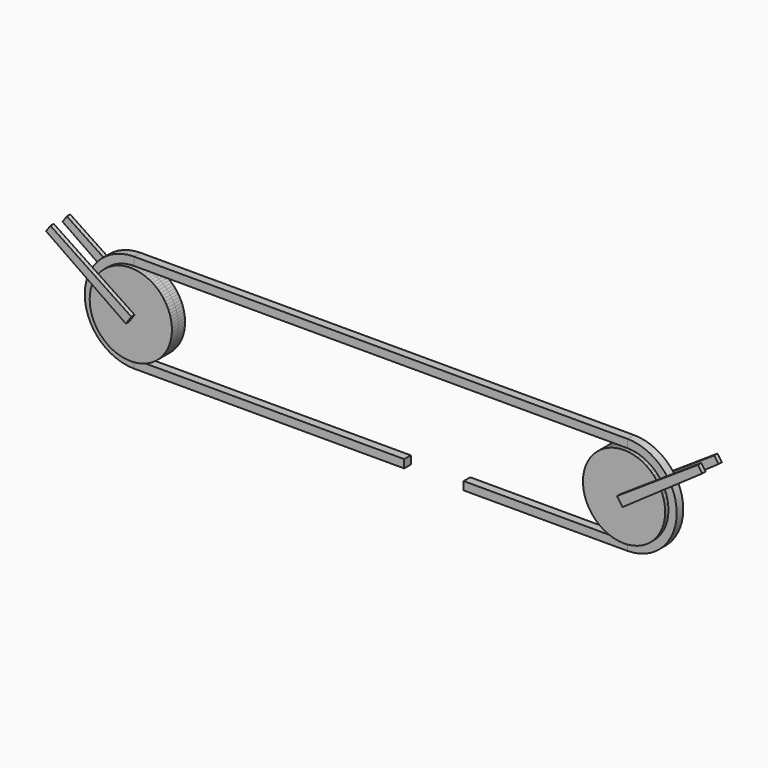
from build123d import *

# Parameters (mm, degrees)
F0_W     = 834.534724
F0_H     = 25.4
F0_W_2   = 505.659487
F0_W_3   = 1524
F1_DEPTH = 12.7
F2_R     = 127
F3_DEPTH = 25.4
F4_W     = 25.4
F4_H     = 25.4
F5_ANGLE = 180
F9_DEPTH = 12.7


with BuildPart() as f1:
    # F0 (on Front) → F1 (new body, symmetric)
    with BuildSketch(Plane.XZ):
        with Locations((-417.267362, -12.7)):
            Rectangle(F0_W, F0_H)
        with Locations((436.635533, -12.7)):
            Rectangle(F0_W_2, F0_H)
        with Locations((-72.534724, 266.7)):
            Rectangle(F0_W_3, F0_H)
    extrude(amount=F1_DEPTH, both=True)


with BuildPart() as f3:
    # F2 (on Front) → F3 (new body, symmetric)
    with BuildSketch(Plane.XZ):
        with Locations((689.465276, 127)):
            Circle(F2_R)
    extrude(amount=F3_DEPTH, both=True)


with BuildPart() as f5:
    # F4 (on face) → F5 (revolve)
    with BuildSketch(Plane.YZ.offset(689.465276)):
        with Locations((0, 266.7)):
            Rectangle(F4_W, F4_H)
    revolve(axis=Axis((689.465276, 5.172679, 127), (0, 1, 0)), revolution_arc=F5_ANGLE)


with BuildPart() as f7_1:
    # F7: instance of F3
    add(f3.part.mirror(Plane(origin=(-72.534724, 0, 266.7), x_dir=(0, -1, 0), z_dir=(-1, 0, 0))))

    # F8 (on face) → F9 (join)
    with BuildSketch(Plane.XZ.offset(25.4)):
        Polygon((-839.719892, 105.583042), (-822.714865, 130.027801), (-1072.667397, 296.283301), (-1086.098239, 276.97644), align=None)
        Polygon((-839.719892, 105.583042), (-822.714865, 130.027801), (-1072.667397, 296.283301), (-1086.098239, 276.97644), align=None)
    extrude(amount=F9_DEPTH)


with BuildPart() as f7_2:
    # F7: instance of F5
    add(f5.part.mirror(Plane(origin=(-72.534724, 0, 266.7), x_dir=(0, -1, 0), z_dir=(-1, 0, 0))))


with BuildPart() as f10_1:
    # F10: instance of F7_1
    add(f7_1.part.mirror(Plane.XZ))


with BuildPart() as f11_1:
    # F11: instance of F7_1
    add(f7_1.part.mirror(Plane(origin=(-72.534724, 0, 266.7), x_dir=(0, -1, 0), z_dir=(-1, 0, 0))))


with BuildPart() as f11_2:
    # F11: instance of F10_1
    add(f10_1.part.mirror(Plane(origin=(-72.534724, 0, 266.7), x_dir=(0, -1, 0), z_dir=(-1, 0, 0))))


solid = Compound([f1.part, f3.part, f5.part, f7_1.part, f7_2.part, f10_1.part, f11_1.part, f11_2.part])
